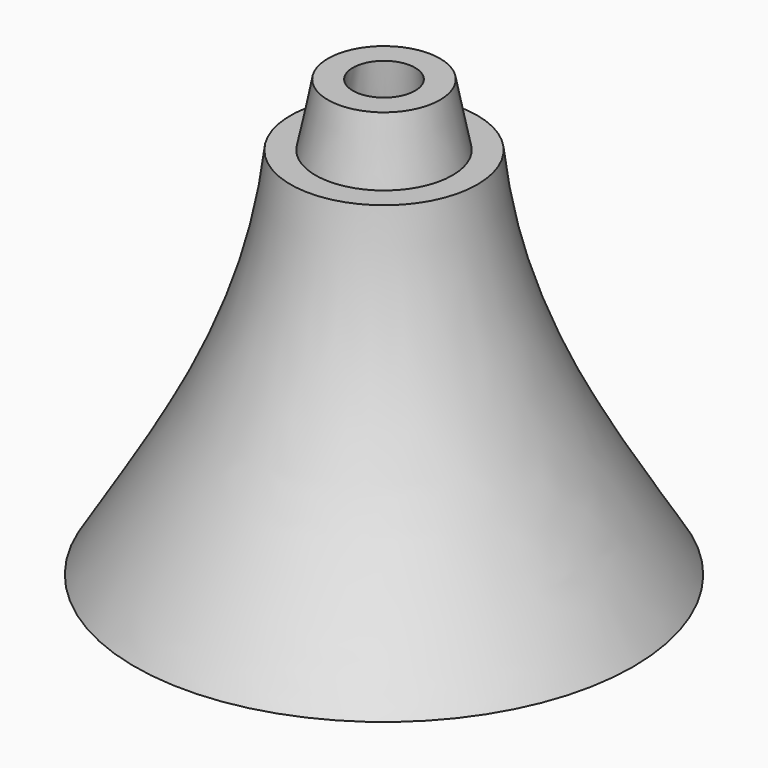
from build123d import *


with BuildPart() as f2:
    # F0 (on Front) → F2 (revolve)
    with BuildSketch(Plane.XZ):
        with BuildLine():
            add(Edge.make_bspline(
                [(7.5, 30), (8.792686, 17.537303), (14.516365, 9.010192), (20.006422, 0)],
                knots=[0, 0, 0, 0, 32.502471, 32.502471, 32.502471, 32.502471], degree=3))
            Line((7.5, 30), (5.5, 30))
            Line((5.5, 30), (4.5, 35))
            Line((4.5, 35), (2.5, 35))
            add(Edge.make_bspline(
                [(2.5, 35), (3.419439, 21.625644), (11.012072, 9.71105), (18.254276, 0)],
                knots=[0, 0, 0, 0, 38.382251, 38.382251, 38.382251, 38.382251], degree=3))
            Line((18.254276, 0), (20.006422, 0))
        make_face()
    revolve(axis=Axis((0, 0, 17.786608), (0, 0, 1)))


solid = f2.part
